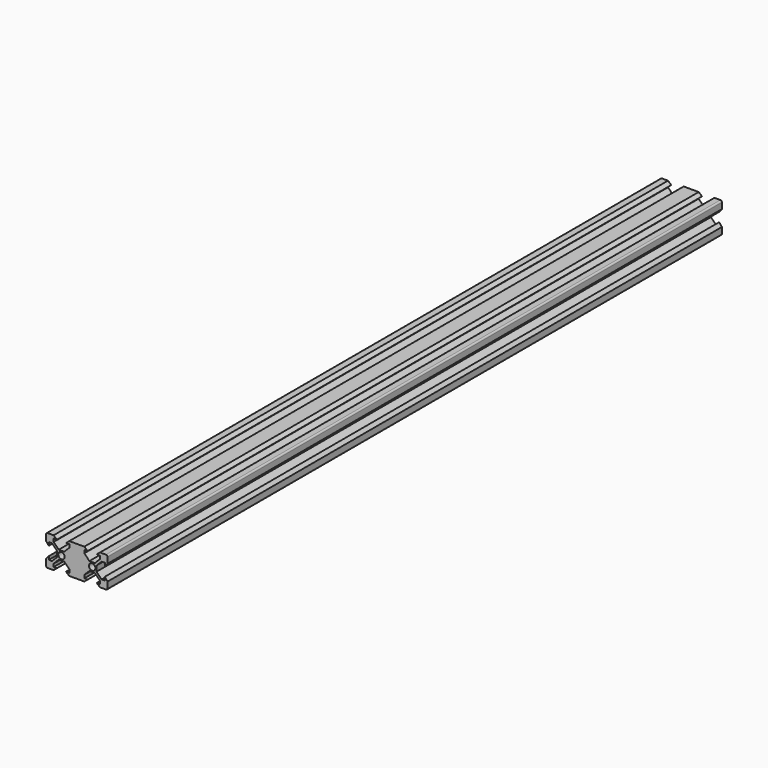
from build123d import *

# Parameters (mm, degrees)
F1_DEPTH = 500
F3_D     = 4.2


with BuildPart() as f1:
    # F0 (on Front) → F1 (new body)
    with BuildSketch(Plane.XZ):
        Polygon((51.17566, 4.885), (53.2, 2.86066), (53.2, 4.885), align=None)
        with BuildLine():
            Line((36.8, 7.055), (35, 4.885))
            Line((35, 4.885), (35, 1))
            ThreePointArc((35, 1), (35.292893, 0.292893), (36, 0))
            Line((36, 0), (39.885, 0))
            Line((39.885, 0), (42.055, 1.8))
            Line((42.055, 1.8), (39.885, 1.8))
            Line((39.885, 1.8), (37.856083, 1.8))
            Line((37.856083, 1.8), (36.8, 2.969672))
            Line((36.8, 2.969672), (36.8, 4.885))
            Line((36.8, 4.885), (36.8, 7.055))
        make_face()
        with BuildLine():
            Line((33.2, 2.969672), (32.143917, 1.8))
            Line((32.143917, 1.8), (30.115, 1.8))
            Line((30.115, 1.8), (27.945, 1.8))
            Line((27.945, 1.8), (30.115, 0))
            Line((30.115, 0), (34, 0))
            ThreePointArc((34, 0), (34.707107, 0.292893), (35, 1))
            Line((35, 1), (35, 4.885))
            Line((35, 4.885), (33.2, 7.055))
            Line((33.2, 7.055), (33.2, 4.885))
            Line((33.2, 4.885), (33.2, 2.969672))
        make_face()
        with BuildLine():
            Line((15, 4.885), (15, 1))
            ThreePointArc((15, 1), (15.292893, 0.292893), (16, 0))
            Line((16, 0), (17.954509, 0))
            Line((17.954509, 0), (17.954509, 1.8))
            Line((17.954509, 1.8), (16.8, 2.86066))
            Line((16.8, 2.86066), (16.8, 4.885))
            Line((16.8, 4.885), (16.8, 7.055))
            Line((16.8, 7.055), (15, 4.885))
        make_face()
        with BuildLine():
            Line((53.2, 2.86066), (52.045491, 1.8))
            Line((52.045491, 1.8), (52.045491, 0))
            Line((52.045491, 0), (54, 0))
            ThreePointArc((54, 0), (54.707107, 0.292893), (55, 1))
            Line((55, 1), (55, 4.885))
            Line((55, 4.885), (53.2, 7.055))
            Line((53.2, 7.055), (53.2, 4.885))
            Line((53.2, 4.885), (53.2, 2.86066))
        make_face()
        Polygon((52.045491, 1.8), (50.115, 1.8), (47.945, 1.8), (50.115, 0), (52.045491, 0), align=None)
        Polygon((41.62967, 7.799342), (38.715328, 4.885), (36.8, 2.969672), (37.856083, 1.8), (39.885, 3.828917), (42.638829, 6.582745), (43.216083, 7.16), (46.685491, 7.16), (47.262745, 6.582745), (50.115, 3.730491), (52.045491, 1.8), (53.2, 2.86066), (51.17566, 4.885), (48.37033, 7.69033), (47.84, 8.22066), (47.84, 11.77934), (48.37033, 12.30967), (51.17566, 15.115), (53.2, 17.13934), (52.13934, 18.2), (50.115, 16.17566), (47.30967, 13.37033), (46.77934, 12.84), (43.22066, 12.84), (42.69033, 13.37033), (39.885, 16.17566), (37.86066, 18.2), (36.8, 17.13934), (38.82434, 15.115), (41.62967, 12.30967), (42.16, 11.77934), (42.16, 8.329672), align=None)
        Polygon((17.954509, 1.8), (17.954509, 0), (19.885, 0), (22.055, 1.8), (19.885, 1.8), align=None)
        with BuildLine():
            Line((35, 19), (35, 15.115))
            Line((35, 15.115), (36.8, 12.945))
            Line((36.8, 12.945), (36.8, 15.115))
            Line((36.8, 15.115), (36.8, 17.13934))
            Line((36.8, 17.13934), (37.86066, 18.2))
            Line((37.86066, 18.2), (39.885, 18.2))
            Line((39.885, 18.2), (42.055, 18.2))
            Line((42.055, 18.2), (39.885, 20))
            Line((39.885, 20), (36, 20))
            ThreePointArc((36, 20), (35.292893, 19.707107), (35, 19))
        make_face()
        with BuildLine():
            Line((16.8, 15.115), (16.8, 17.13934))
            Line((16.8, 17.13934), (17.86066, 18.2))
            Line((17.86066, 18.2), (19.885, 18.2))
            Line((19.885, 18.2), (22.055, 18.2))
            Line((22.055, 18.2), (19.885, 20))
            Line((19.885, 20), (16, 20))
            ThreePointArc((16, 20), (15.292893, 19.707107), (15, 19))
            Line((15, 19), (15, 15.115))
            Line((15, 15.115), (16.8, 12.945))
            Line((16.8, 12.945), (16.8, 15.115))
        make_face()
        Polygon((36.8, 17.13934), (36.8, 15.115), (38.82434, 15.115), align=None)
        Polygon((50.115, 18.2), (50.115, 16.17566), (52.13934, 18.2), align=None)
        with BuildLine():
            Line((33.2, 12.945), (35, 15.115))
            Line((35, 15.115), (35, 19))
            ThreePointArc((35, 19), (34.707107, 19.707107), (34, 20))
            Line((34, 20), (30.115, 20))
            Line((30.115, 20), (27.945, 18.2))
            Line((27.945, 18.2), (30.115, 18.2))
            Line((30.115, 18.2), (32.13934, 18.2))
            Line((32.13934, 18.2), (33.2, 17.13934))
            Line((33.2, 17.13934), (33.2, 15.115))
            Line((33.2, 15.115), (33.2, 12.945))
        make_face()
        Polygon((35, 15.115), (35, 4.885), (36.8, 7.055), (36.8, 4.885), (38.715328, 4.885), (41.62967, 7.799342), (42.16, 8.329672), (42.16, 11.77934), (41.62967, 12.30967), (38.82434, 15.115), (36.8, 15.115), (36.8, 12.945), align=None)
        with BuildLine():
            Line((47.945, 18.2), (50.115, 18.2))
            Line((50.115, 18.2), (52.13934, 18.2))
            Line((52.13934, 18.2), (53.2, 17.13934))
            Line((53.2, 17.13934), (53.2, 15.115))
            Line((53.2, 15.115), (53.2, 12.945))
            Line((53.2, 12.945), (55, 15.115))
            Line((55, 15.115), (55, 19))
            ThreePointArc((55, 19), (54.707107, 19.707107), (54, 20))
            Line((54, 20), (50.115, 20))
            Line((50.115, 20), (47.945, 18.2))
        make_face()
        Polygon((16.8, 2.86066), (17.954509, 1.8), (19.885, 3.730491), (22.737255, 6.582745), (23.314509, 7.16), (26.783917, 7.16), (27.361171, 6.582745), (30.115, 3.828917), (32.143917, 1.8), (33.2, 2.969672), (31.284672, 4.885), (28.37033, 7.799342), (27.84, 8.329672), (27.84, 11.77934), (28.37033, 12.30967), (31.17566, 15.115), (33.2, 17.13934), (32.13934, 18.2), (30.115, 16.17566), (27.30967, 13.37033), (26.77934, 12.84), (23.22066, 12.84), (22.69033, 13.37033), (19.885, 16.17566), (17.86066, 18.2), (16.8, 17.13934), (18.82434, 15.115), (21.62967, 12.30967), (22.16, 11.77934), (22.16, 8.22066), (21.62967, 7.69033), (18.82434, 4.885), align=None)
        Polygon((30.115, 18.2), (30.115, 16.17566), (32.13934, 18.2), align=None)
        Polygon((53.2, 15.115), (53.2, 17.13934), (51.17566, 15.115), align=None)
        Polygon((31.284672, 4.885), (33.2, 4.885), (33.2, 7.055), (35, 4.885), (35, 15.115), (33.2, 12.945), (33.2, 15.115), (31.17566, 15.115), (28.37033, 12.30967), (27.84, 11.77934), (27.84, 8.329672), (28.37033, 7.799342), align=None)
        Polygon((19.885, 18.2), (17.86066, 18.2), (19.885, 16.17566), align=None)
        Polygon((18.82434, 4.885), (16.8, 4.885), (16.8, 2.86066), align=None)
        Polygon((32.143917, 1.8), (30.115, 3.828917), (30.115, 1.8), align=None)
        Polygon((39.885, 3.828917), (37.856083, 1.8), (39.885, 1.8), align=None)
        Polygon((16.8, 15.115), (18.82434, 15.115), (16.8, 17.13934), align=None)
        Polygon((52.045491, 1.8), (50.115, 3.730491), (50.115, 1.8), align=None)
        Polygon((39.885, 18.2), (37.86066, 18.2), (39.885, 16.17566), align=None)
        Polygon((31.284672, 4.885), (33.2, 2.969672), (33.2, 4.885), align=None)
        Polygon((31.17566, 15.115), (33.2, 15.115), (33.2, 17.13934), align=None)
        Polygon((38.715328, 4.885), (36.8, 4.885), (36.8, 2.969672), align=None)
        Polygon((19.885, 3.730491), (17.954509, 1.8), (19.885, 1.8), align=None)
        with BuildLine():
            Line((35, 20), (35, 19))
            ThreePointArc((35, 19), (35.292893, 19.707107), (36, 20))
            Line((36, 20), (35, 20))
        make_face()
        with BuildLine():
            ThreePointArc((34, 20), (34.707107, 19.707107), (35, 19))
            Line((35, 19), (35, 20))
            Line((35, 20), (34, 20))
        make_face()
        with BuildLine():
            ThreePointArc((36, 0), (35.292893, 0.292893), (35, 1))
            Line((35, 1), (35, 0))
            Line((35, 0), (36, 0))
        make_face()
        with BuildLine():
            ThreePointArc((35, 1), (34.707107, 0.292893), (34, 0))
            Line((34, 0), (35, 0))
            Line((35, 0), (35, 1))
        make_face()
    extrude(amount=F1_DEPTH)

    # F3 (through all)
    with Locations(Plane.XZ.offset(500)):
        with Locations((45, 10), (25, 10)):
            Hole(F3_D / 2)


solid = f1.part
